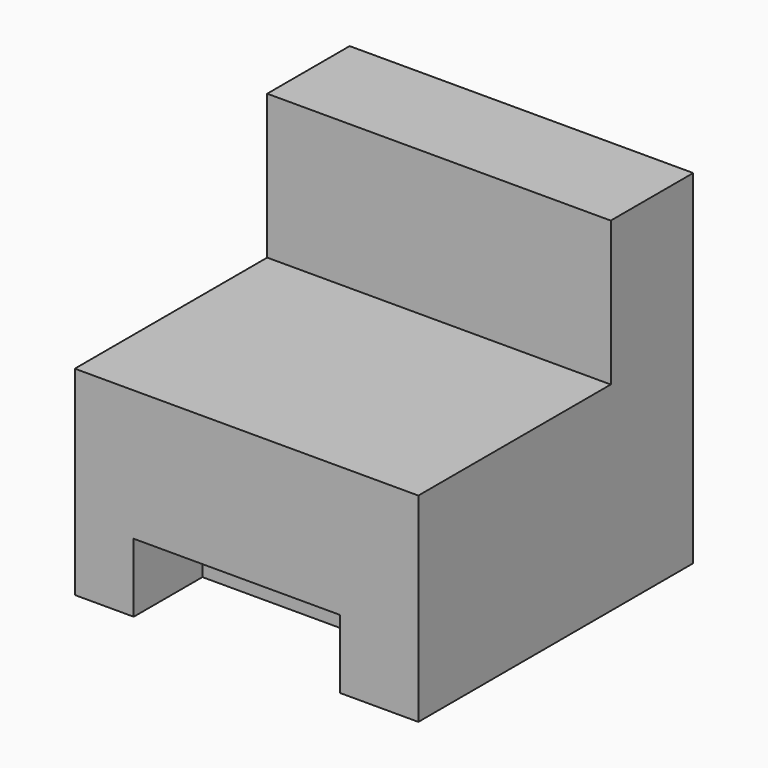
from build123d import *

# Parameters (mm, degrees)
F0_W     = 100
F0_H     = 100
F1_DEPTH = 100
F2_W     = 100
F2_H     = 70
F3_DEPTH = 42
F4_W     = 60
F4_H     = 20
F5_DEPTH = 25


with BuildPart() as f1:
    # F0 (on Top) → F1 (new body)
    with BuildSketch(Plane.XY):
        Rectangle(F0_W, F0_H)
    extrude(amount=F1_DEPTH)

    # F2 (on face) → F3 (cut)
    with BuildSketch(Plane.XY.offset(100)):
        with Locations((0, -15)):
            Rectangle(F2_W, F2_H)
    extrude(amount=-F3_DEPTH, mode=Mode.SUBTRACT)

    # F4 (on face) → F5 (cut)
    with BuildSketch(Plane.XZ.offset(50)):
        with Locations((-2.848295, 10)):
            Rectangle(F4_W, F4_H)
    extrude(amount=-F5_DEPTH, mode=Mode.SUBTRACT)


solid = f1.part
